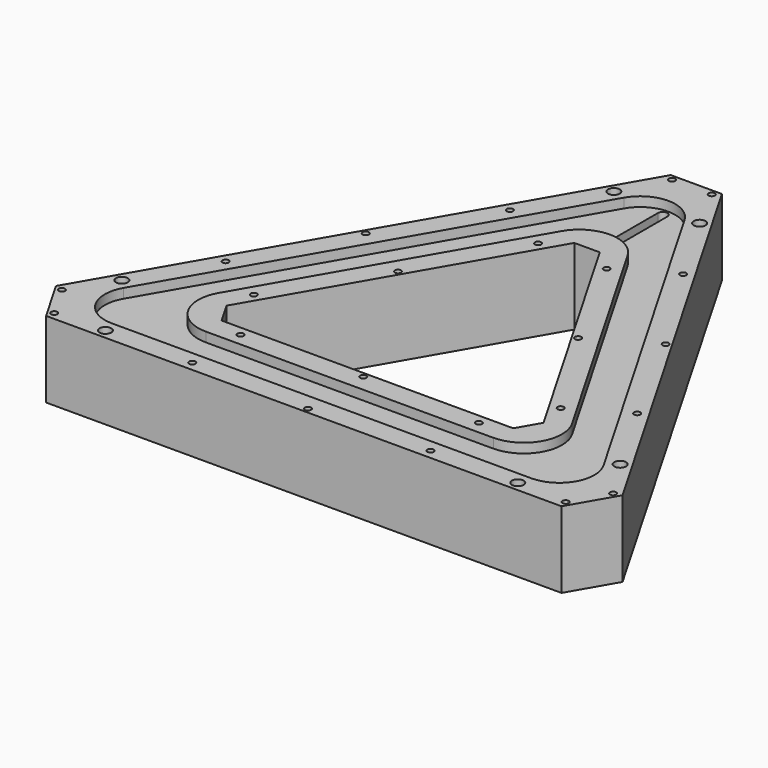
from build123d import *

# Parameters (mm, degrees)
PAD_DEPTH             = 24
POCKET_DEPTH          = 3
SKETCH002_W           = 70
SKETCH002_H           = 18.5
POCKET001_DEPTH       = 18
POLARPATTERN_COUNT    = 3
POCKET002_DEPTH       = 6
CHAMFER_SIZE          = 8
FILLET_R              = 13
FILLET001_R           = 11
CHAMFER001_SIZE       = 16.1
FILLET002_R           = 11
FILLET003_R           = 12
POCKET003_DEPTH       = 6
POCKET004_DEPTH       = 18
POCKET005_DEPTH       = 21.001
SKETCH007_W           = 15.5
SKETCH007_H           = 15
POCKET006_DEPTH       = 5
SKETCH010_W           = 13.6
SKETCH010_H           = 9
POCKET009_DEPTH       = 15.5
POCKET010_DEPTH       = 3
SKETCH012_R           = 1.85
SKETCH012_R_2         = 0.99
POCKET011_DEPTH       = 498.0492855781
POLARPATTERN001_COUNT = 3


with BuildPart() as part:
    # Sketch → Pad (new body)
    with BuildSketch(Plane.XY):
        Polygon((0, 112.2094915052), (-97.1762701892, -56.1047457526), (97.1762701892, -56.1047457526), align=None)
        Polygon((0, 62.2094915052), (-53.875, -31.1047457526), (53.875, -31.1047457526), align=None, mode=Mode.SUBTRACT)
    extrude(amount=PAD_DEPTH)

    # Sketch001 (on Face8 of Pad) → Pocket (cut)
    with BuildSketch(Plane.XY.offset(24)):
        Polygon((0, 98.2094915052), (-85.0519145362, -49.1047457526), (85.0519145362, -49.1047457526), align=None)
        Polygon((0, 76.2094915052), (-65.999355653, -38.1047457526), (65.999355653, -38.1047457526), align=None, mode=Mode.SUBTRACT)
    extrude(amount=-POCKET_DEPTH, mode=Mode.SUBTRACT)

    # Sketch002 (on Face4 of Pocket) → Pocket001 (cut)
    with BuildSketch(Plane(origin=(0, 0, 0), x_dir=(1, 0, 0), z_dir=(0, 0, -1))):
        with Locations((0, 43.6047457526)):
            Rectangle(SKETCH002_W, SKETCH002_H)
    pocket001 = extrude(amount=-POCKET001_DEPTH, mode=Mode.SUBTRACT)

    # PolarPattern: Pocket001 ×3 about axis
    polarpattern_axis = Axis((0, 0, 0), (0, 0, -1))
    for i in range(1, POLARPATTERN_COUNT):
        add(pocket001.rotate(polarpattern_axis, i * 360 / POLARPATTERN_COUNT), mode=Mode.SUBTRACT)

    # Sketch003 (on Face4 of PolarPattern) → Pocket002 (cut)
    with BuildSketch(Plane(origin=(0, 0, 0), x_dir=(1, 0, 0), z_dir=(0, 0, -1))):
        Polygon((0, -100.2094915052), (86.7839653438, 50.1047457526), (-86.7839653438, 50.1047457526), align=None)
        Polygon((0, -74.2094915052), (64.2673048454, 37.1047457526), (-64.2673048454, 37.1047457526), align=None, mode=Mode.SUBTRACT)
    extrude(amount=-POCKET002_DEPTH, mode=Mode.SUBTRACT)

    # Chamfer
    chamfer_edges = [part.edges().sort_by_distance(p)[0] for p in [
        (-53.875, -31.104746, 12),
        (53.875, -31.104746, 12),
        (0, 62.209492, 12),
    ]]
    chamfer(chamfer_edges, length=CHAMFER_SIZE)

    # Fillet
    fillet_edges = [part.edges().sort_by_distance(p)[0] for p in [
        (0, 100.209492, 3),
        (-86.783965, -50.104746, 3),
        (86.783965, -50.104746, 3),
    ]]
    fillet(fillet_edges, radius=FILLET_R)

    # Fillet001
    fillet001_edges = [part.edges().sort_by_distance(p)[0] for p in [
        (0, 74.209492, 3),
        (64.267305, -37.104746, 3),
        (-64.267305, -37.104746, 3),
    ]]
    fillet(fillet001_edges, radius=FILLET001_R)

    # Chamfer001
    chamfer001_edges = [part.edges().sort_by_distance(p)[0] for p in [
        (97.17627, -56.104746, 12),
        (0, 112.209492, 12),
        (-97.17627, -56.104746, 12),
    ]]
    chamfer(chamfer001_edges, length=CHAMFER001_SIZE)

    # Fillet002
    fillet002_edges = [part.edges().sort_by_distance(p)[0] for p in [
        (0, 98.209492, 22.5),
        (-85.051915, -49.104746, 22.5),
        (85.051915, -49.104746, 22.5),
    ]]
    fillet(fillet002_edges, radius=FILLET002_R)

    # Fillet003
    fillet003_edges = [part.edges().sort_by_distance(p)[0] for p in [
        (65.999356, -38.104746, 22.5),
        (0, 76.209492, 22.5),
        (-65.999356, -38.104746, 22.5),
    ]]
    fillet(fillet003_edges, radius=FILLET003_R)

    # Sketch004 (on Face60 of Fillet003) → Pocket003 (cut)
    with BuildSketch(Plane(origin=(0, 0, 6), x_dir=(1, 0, 0), z_dir=(0, 0, -1))):
        Polygon((-8.75, -71.2664825043), (8.75, -71.2664825043), (8.75, -94.7664825043), (4, -94.7664825043), (4, -98.2664825043), (-4, -98.2664825043), (-4, -94.7664825043), (-8.75, -94.7664825043), align=None)
    extrude(amount=-POCKET003_DEPTH, mode=Mode.SUBTRACT)

    # Sketch005 (on Face29 of Pocket003) → Pocket004 (cut)
    with BuildSketch(Plane(origin=(0, 0, 0), x_dir=(1, 0, 0), z_dir=(0, 0, -1))):
        Polygon((46.1715988394, 38.9547457526), (68.6882593378, 51.9547457526), (79.3382593378, 33.508404652), (56.8215988394, 20.508404652), align=None)
    extrude(amount=-POCKET004_DEPTH, mode=Mode.SUBTRACT)

    # Sketch006 (on Face1 of Pocket004) → Pocket005 (cut, through all)
    with BuildSketch(Plane.XY.offset(21)):
        with BuildLine():
            ThreePointArc((1.5, 85.0404521425), (0, 86.5404521425), (-1.5, 85.0404521425))
            Line((-1.5, 85.0404521425), (-1.5, 66.0404521425))
            ThreePointArc((-1.5, 66.0404521425), (0, 64.5404521425), (1.5, 66.0404521425))
            Line((1.5, 85.0404521425), (1.5, 66.0404521425))
        make_face()
    extrude(amount=-POCKET005_DEPTH, mode=Mode.SUBTRACT)

    # Sketch007 (on Face24 of Pocket005) → Pocket006 (cut)
    with BuildSketch(Plane(origin=(-48.5881350946, 28.0523728763, 0), x_dir=(-0.5, -0.8660254038, 0), z_dir=(-0.8660254038, 0.5, 0))):
        with Locations((-47.3262701892, 13.5)):
            Rectangle(SKETCH007_W, SKETCH007_H)
    extrude(amount=-POCKET006_DEPTH, mode=Mode.SUBTRACT)

    # Sketch010 (on Face79 of Pocket006) → Pocket009 (cut)
    with BuildSketch(Plane(origin=(-44.2580080757, 25.5523728763, 0), x_dir=(-0.5, -0.8660254038, 0), z_dir=(-0.8660254038, 0.5, 0))):
        with Locations((-47.3262701892, 13.5)):
            Rectangle(SKETCH010_W, SKETCH010_H)
    extrude(amount=-POCKET009_DEPTH, mode=Mode.SUBTRACT)

    # Sketch011 (on Face21 of Pocket009) → Pocket010 (cut)
    with BuildSketch(Plane(origin=(0, 0, 6), x_dir=(1, 0, 0), z_dir=(0, 0, -1))):
        Polygon((-21.0413798427, -59.7570681827), (-11.6817654684, -54.3532923042), (-6.658482036, -63.0538744299), (-16.0180964103, -68.4576503084), align=None)
    extrude(amount=-POCKET010_DEPTH, mode=Mode.SUBTRACT)

    # Sketch012 (on Face54 of Pocket010) → Pocket011 (cut, through all)
    with BuildSketch(Plane(origin=(0, 0, 0), x_dir=(1, 0, 0), z_dir=(0, 0, -1))):
        with Locations((-13.5, -82.7032108255)):
            Circle(SKETCH012_R)
        with Locations((13.5, -82.7032108255)):
            Circle(SKETCH012_R)
        with Locations((-6.25, -96.5164825043)):
            Circle(SKETCH012_R_2)
        with Locations((6.25, -96.5164825043)):
            Circle(SKETCH012_R_2)
        with Locations((-27.2463245869, -59.0174730012)):
            Circle(SKETCH012_R_2)
        with Locations((-47.1862074814, -27.2405827309)):
            Circle(SKETCH012_R_2)
        with Locations((-64.7337931796, 5.9127272486)):
            Circle(SKETCH012_R_2)
        with Locations((-10.791841915, -49.5174730012)):
            Circle(SKETCH012_R_2)
        with Locations((-28.3394276132, -16.3641630217)):
            Circle(SKETCH012_R_2)
        with Locations((-48.2793105078, 15.4127272487)):
            Circle(SKETCH012_R_2)
    pocket011 = extrude(amount=-POCKET011_DEPTH, mode=Mode.SUBTRACT)

    # PolarPattern001: Pocket011 ×3 about axis
    polarpattern001_axis = Axis((0, 0, 0), (0, 0, -1))
    for i in range(1, POLARPATTERN001_COUNT):
        add(pocket011.rotate(polarpattern001_axis, i * 360 / POLARPATTERN001_COUNT), mode=Mode.SUBTRACT)


solid = part.part
